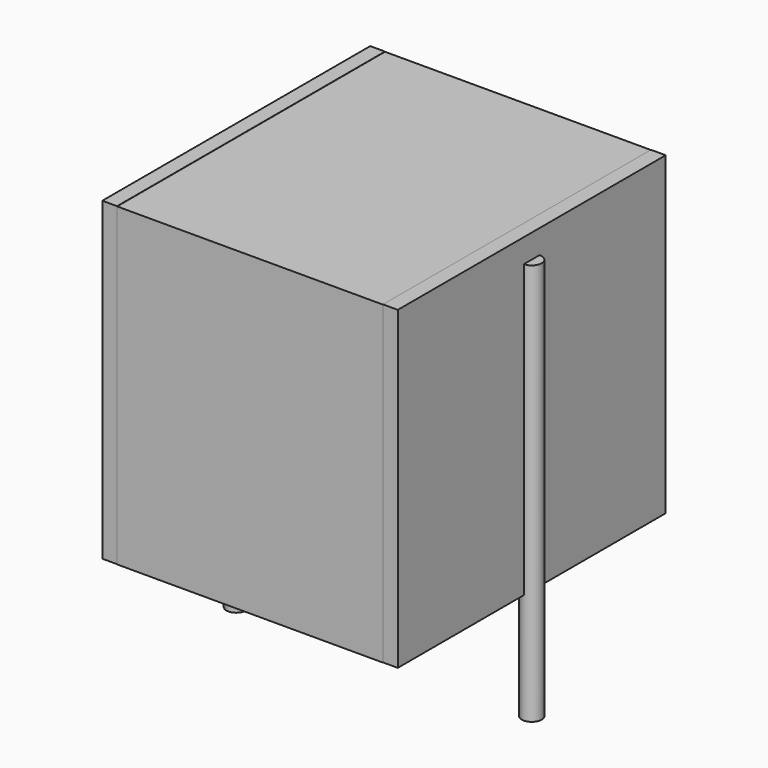
from build123d import *

# Parameters (mm, degrees)
SKETCH_W          = 6.75
SKETCH_H          = 8.5
PAD_DEPTH         = 8
SKETCH001_R       = 0.25
PAD001_DEPTH      = 7
PAD001_DEPTH_BACK = 3.2
SKETCH002_W       = 0.375
SKETCH002_H       = 8.5
PAD002_DEPTH      = 8


with BuildPart() as pad:
    # Sketch → Pad (new body)
    with BuildSketch(Plane.XY.offset(0.1)):
        with Locations((3.75, 0)):
            Rectangle(SKETCH_W, SKETCH_H)
    extrude(amount=PAD_DEPTH)


with BuildPart() as pad001:
    # Sketch001 → Pad001 (new body, two sides)
    with BuildSketch(Plane.XY.offset(0.5)) as pad001_sk:
        Circle(SKETCH001_R)
        with Locations((7.5, 0)):
            Circle(SKETCH001_R)
    extrude(amount=PAD001_DEPTH)
    extrude(pad001_sk.sketch, amount=-PAD001_DEPTH_BACK)


with BuildPart() as pad002:
    # Sketch002 → Pad002 (new body)
    with BuildSketch(Plane.XY.offset(0.105)):
        with Locations((0.1875, 0)):
            Rectangle(SKETCH002_W, SKETCH002_H)
        with Locations((7.3125, 0)):
            Rectangle(SKETCH002_W, SKETCH002_H)
    extrude(amount=PAD002_DEPTH)


solid = Compound([pad.part, pad001.part, pad002.part])
